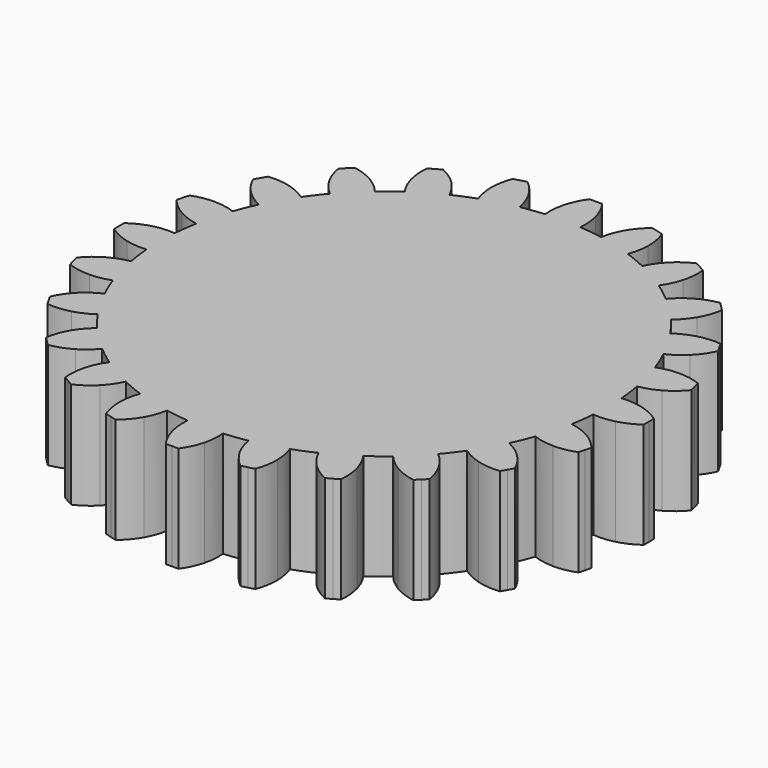
from build123d import *

# Parameters (mm, degrees)
F1_DEPTH = 10
F3_COUNT = 24
F3_ANGLE = 345


with BuildPart() as f1:
    # F0 (on Top) → F1 (new body)
    with BuildSketch(Plane.XY):
        with BuildLine():
            ThreePointArc((-1.6656801937, 21.0843071855), (-14.3543262451, -15.5330556572), (21.15, 0))
            ThreePointArc((21.15, 0), (15.5330556572, 14.3543262451), (1.6656801937, 21.0843071855))
            ThreePointArc((1.6656801937, 21.0843071855), (0, 21.15), (-1.6656801937, 21.0843071855))
        make_face()
        with BuildLine():
            ThreePointArc((-1.6656801937, 21.0843071855), (0, 21.15), (1.6656801937, 21.0843071855))
            ThreePointArc((1.6656801937, 21.0843071855), (1.6731808994, 22.0741139263), (1.5108122852, 23.0505411268))
            ThreePointArc((1.5108122852, 23.0505411268), (1.1466547621, 24.064540519), (0.5997273614, 24.9928055066))
            ThreePointArc((0.5997273614, 24.9928055066), (0.2998852567, 24.998201312), (0, 25))
            ThreePointArc((0, 25), (-0.2998852567, 24.998201312), (-0.5997273614, 24.9928055066))
            ThreePointArc((-0.5997273614, 24.9928055066), (-1.1466547621, 24.064540519), (-1.5108122852, 23.0505411268))
            ThreePointArc((-1.5108122852, 23.0505411268), (-1.6731808994, 22.0741139263), (-1.6656801937, 21.0843071855))
        make_face()
    extrude(amount=F1_DEPTH)

    # F3: F1 ×24 about axis
    f3_axis = Axis((0, 0, 21.9664014876), (0, 0, -1))


with BuildPart() as f1_1:
    add(f1.part)
    for i in range(1, F3_COUNT):
        add(f1.part.rotate(f3_axis, i * F3_ANGLE / (F3_COUNT - 1)))


solid = f1_1.part
